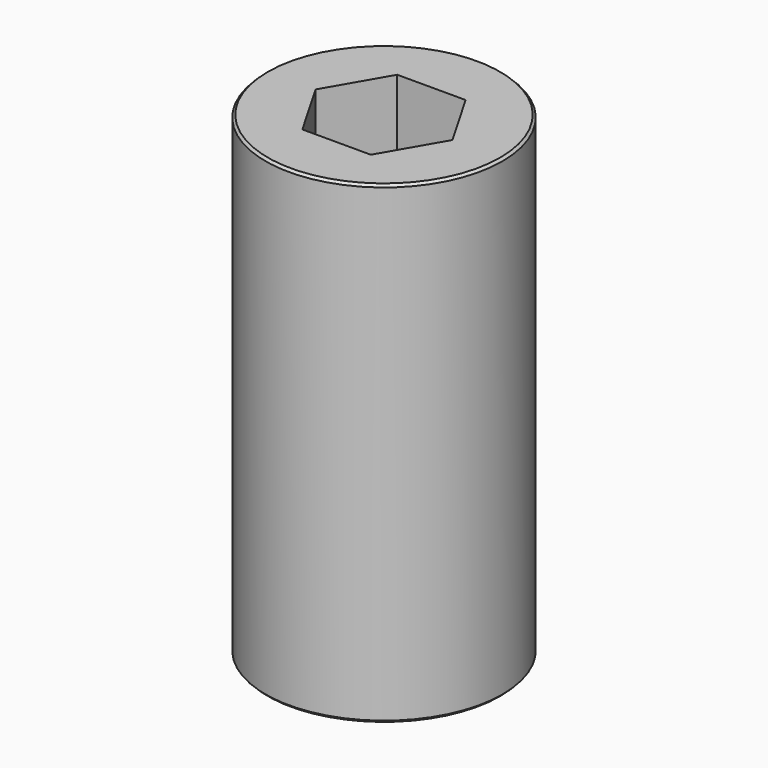
from build123d import *

# Parameters (mm, degrees)
F0_R     = 12.7
F1_DEPTH = 50.8
F2_SIZE  = 0.254


with BuildPart() as f1:
    # F0 (on Top) → F1 (new body)
    with BuildSketch(Plane.XY):
        Circle(F0_R)
        Polygon((-3.666174, 6.35), (3.666174, 6.35), (7.332348, 0), (3.666174, -6.35), (-3.666174, -6.35), (-7.332348, 0), align=None, mode=Mode.SUBTRACT)
    extrude(amount=F1_DEPTH)

    # F2
    f2_edges = [f1.edges().sort_by_distance(p)[0] for p in [
        (-12.7, 0, 50.8),
        (-12.7, 0, 0),
    ]]
    chamfer(f2_edges, length=F2_SIZE)


solid = f1.part
